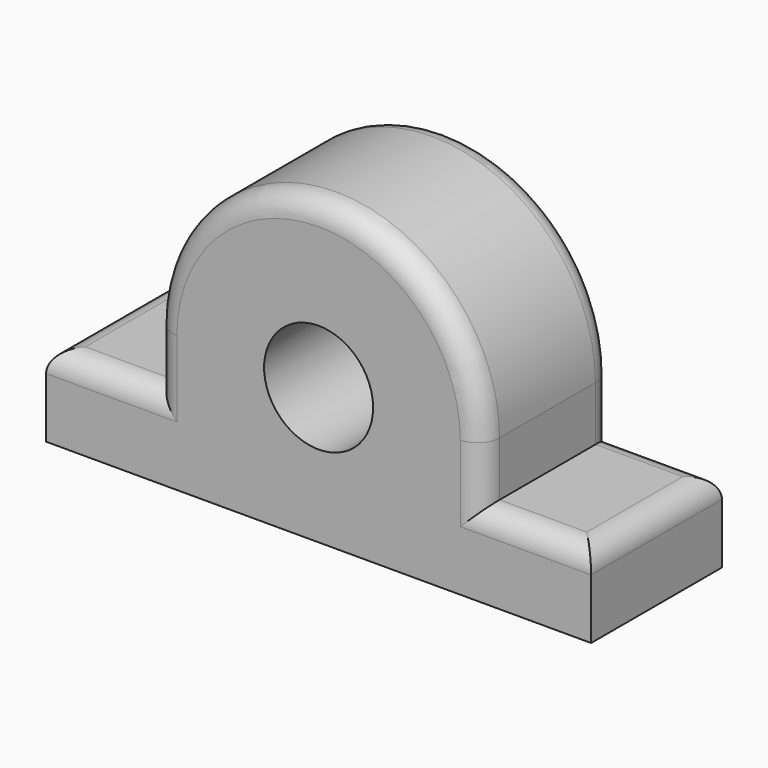
from build123d import *

# Parameters (mm, degrees)
F1_DEPTH = 38.1
F2_R     = 5.08
F3_R     = 12.7
F4_DEPTH = 38.1


with BuildPart() as f1:
    # F0 (on Front) → F1 (new body)
    with BuildSketch(Plane.XZ):
        with BuildLine():
            Line((-25.4, 93.829548), (-25.4, 74.779548))
            Line((-25.4, 74.779548), (101.6, 74.779548))
            Line((101.6, 74.779548), (101.6, 93.829548))
            Line((101.6, 93.829548), (76.2, 93.829548))
            Line((76.2, 93.829548), (76.2, 106.529548))
            ThreePointArc((76.2, 106.529548), (38.1, 144.629548), (0, 106.529548))
            Line((0, 106.529548), (0, 93.829548))
            Line((0, 93.829548), (-25.4, 93.829548))
        make_face()
    extrude(amount=F1_DEPTH)

    # F2
    f2_edges = [f1.edges().sort_by_distance(p)[0] for p in [
        (38.1, -38.1, 144.629548),
        (38.1, 0, 144.629548),
        (88.9, -38.1, 93.829548),
        (101.6, -19.05, 93.829548),
        (88.9, 0, 93.829548),
        (-12.7, -38.1, 93.829548),
        (-12.7, 0, 93.829548),
        (-25.4, -19.05, 93.829548),
    ]]
    fillet(f2_edges, radius=F2_R)

    # F3 (on face) → F4 (cut)
    with BuildSketch(Plane.XZ.offset(38.1)):
        with Locations((38.1, 106.529548)):
            Circle(F3_R)
    extrude(amount=-F4_DEPTH, mode=Mode.SUBTRACT)


solid = f1.part
